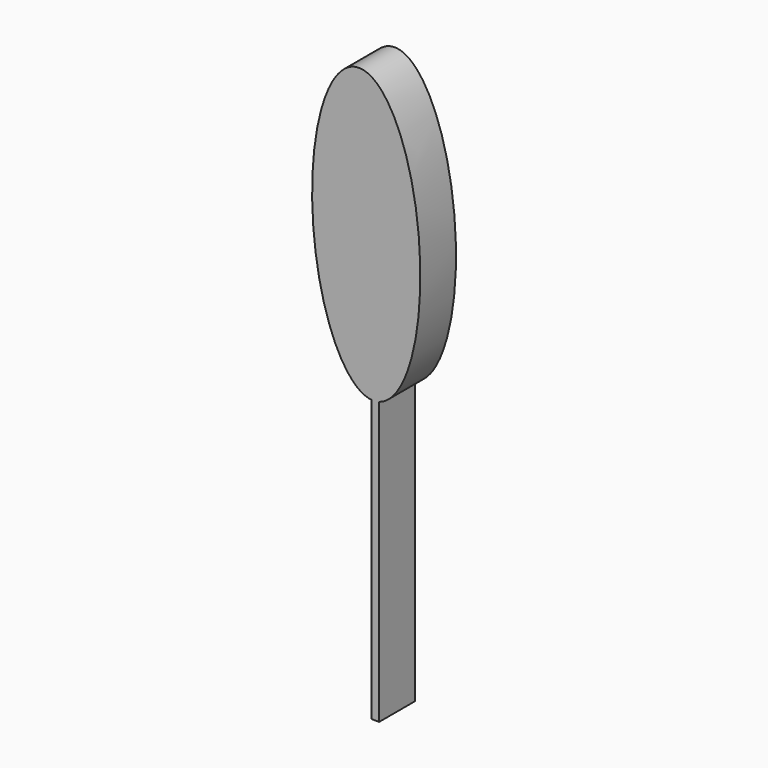
from build123d import *

# Parameters (mm, degrees)
F1_DEPTH = 152.4


with BuildPart() as f1:
    # F0 (on Front) → F1 (new body)
    with BuildSketch(Plane.XZ):
        with BuildLine():
            Line((0.6914708489, 450.7591008223), (0.6914708489, 487.1739689261))
            Line((0.6914708489, 487.1739689261), (-24.7085291511, 487.1739689261))
            Line((-24.7085291511, 487.1739689261), (-24.7085291511, 448.1378148394))
            add(Edge.make_bspline(
                [(-24.7085291511, 448.1378148394), (-19.824092298, 447.7253796921), (-14.9730658159, 448.0068385601)],
                knots=[6.2301268255, 6.2301268255, 6.2301268255, 6.2831853072, 6.2831853072, 6.2831853072], degree=2, weights=[1, 0.9996481203, 1]))
            add(Edge.make_bspline(
                [(-14.9730658159, 448.0068385601), (-7.072772778, 448.4652173267), (0.6914708489, 450.7591008223)],
                knots=[0, 0, 0, 0.0863766066, 0.0863766066, 0.0863766066], degree=2, weights=[1, 0.9990675302, 1]))
        make_face()
        with BuildLine():
            Line((-24.7085291511, 487.1739689261), (0.6914708489, 487.1739689261))
            Line((0.6914708489, 487.1739689261), (0.6914708489, 450.7591008223))
            add(Edge.make_bspline(
                [(0.6914708489, 450.7591008223), (295.8223477918, 537.953150905), (95.7108753392, 1212.9951620942), (-104.4005971134, 1888.0371732834), (-215.7398584811, 1180.8533730028), (-327.0791198488, 473.6695727222), (-24.7085291511, 448.1378148394)],
                knots=[0.0863766066, 0.0863766066, 0.0863766066, 2.1342933462, 2.1342933462, 4.1822100859, 4.1822100859, 6.2301268255, 6.2301268255, 6.2301268255], degree=2, weights=[1, 0.5199889012, 1, 0.5199889012, 1, 0.5199889012, 1]))
            Line((-24.7085291511, 448.1378148394), (-24.7085291511, 487.1739689261))
        make_face()
        with BuildLine():
            Line((0.6914708489, -512.8260310739), (0.6914708489, 450.7591008223))
            add(Edge.make_bspline(
                [(-14.9730658159, 448.0068385601), (-7.072772778, 448.4652173267), (0.6914708489, 450.7591008223)],
                knots=[0, 0, 0, 0.0863766066, 0.0863766066, 0.0863766066], degree=2, weights=[1, 0.9990675302, 1]))
            add(Edge.make_bspline(
                [(-24.7085291511, 448.1378148394), (-19.824092298, 447.7253796921), (-14.9730658159, 448.0068385601)],
                knots=[6.2301268255, 6.2301268255, 6.2301268255, 6.2831853072, 6.2831853072, 6.2831853072], degree=2, weights=[1, 0.9996481203, 1]))
            Line((-24.7085291511, 448.1378148394), (-24.7085291511, -512.8260310739))
            Line((-24.7085291511, -512.8260310739), (0.6914708489, -512.8260310739))
        make_face()
    extrude(amount=F1_DEPTH)


solid = f1.part
